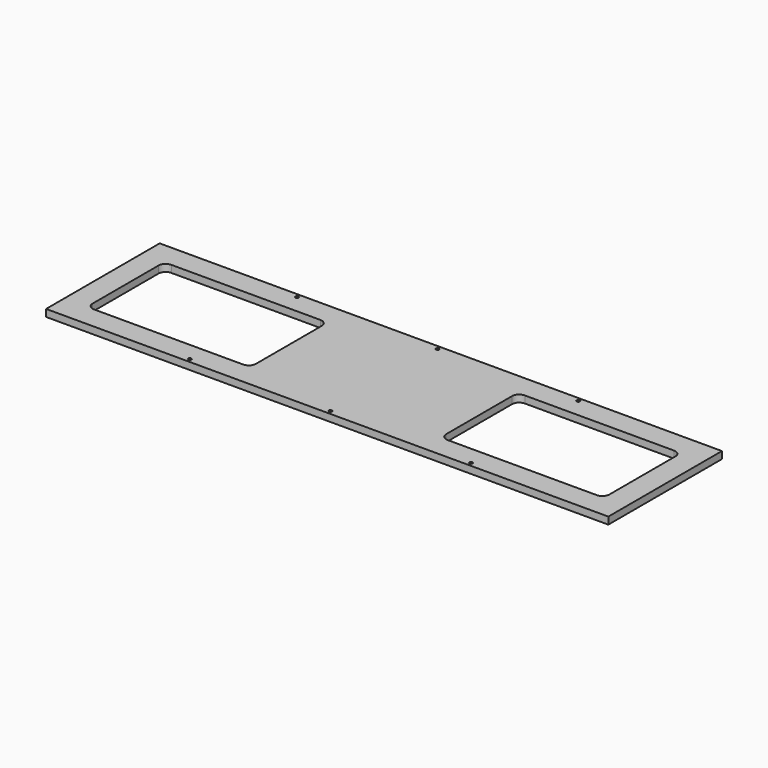
from build123d import *

# Parameters (mm, degrees)
F0_W     = 396
F0_H     = 100
F0_R     = 1.13
F1_DEPTH = 5


with BuildPart() as f1:
    # F0 (on Top) → F1 (new body)
    with BuildSketch(Plane.XY):
        Rectangle(F0_W, F0_H)
        with Locations((-99, -47.25)):
            Circle(F0_R, mode=Mode.SUBTRACT)
        with Locations((0, -47.25)):
            Circle(F0_R, mode=Mode.SUBTRACT)
        with Locations((99, -47.25)):
            Circle(F0_R, mode=Mode.SUBTRACT)
        with BuildLine():
            ThreePointArc((-182, 29), (-180.535534, 32.535534), (-177, 34))
            Line((-177, 34), (-72, 34))
            ThreePointArc((-72, 34), (-68.464466, 32.535534), (-67, 29))
            Line((-67, 29), (-67, -29))
            ThreePointArc((-67, -29), (-68.464466, -32.535534), (-72, -34))
            Line((-72, -34), (-177, -34))
            ThreePointArc((-177, -34), (-180.535534, -32.535534), (-182, -29))
            Line((-182, -29), (-182, 29))
        make_face(mode=Mode.SUBTRACT)
        with Locations((-99, 47.25)):
            Circle(F0_R, mode=Mode.SUBTRACT)
        with BuildLine():
            ThreePointArc((67, 29), (68.464466, 32.535534), (72, 34))
            Line((72, 34), (177, 34))
            ThreePointArc((177, 34), (180.535534, 32.535534), (182, 29))
            Line((182, 29), (182, -29))
            ThreePointArc((182, -29), (180.535534, -32.535534), (177, -34))
            Line((177, -34), (72, -34))
            ThreePointArc((72, -34), (68.464466, -32.535534), (67, -29))
            Line((67, -29), (67, 29))
        make_face(mode=Mode.SUBTRACT)
        with Locations((0, 47.25)):
            Circle(F0_R, mode=Mode.SUBTRACT)
        with Locations((99, 47.25)):
            Circle(F0_R, mode=Mode.SUBTRACT)
    extrude(amount=F1_DEPTH)


solid = f1.part
